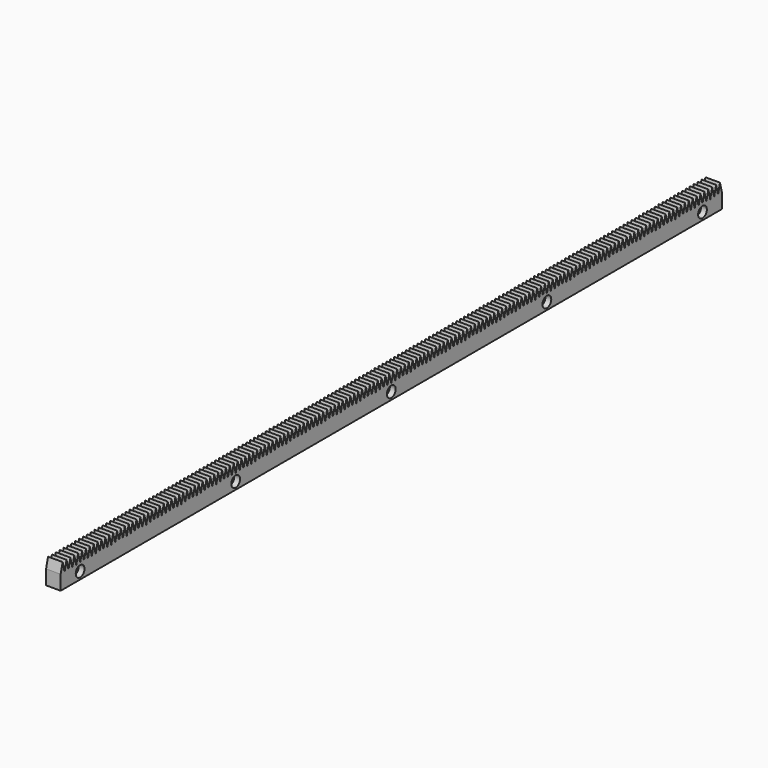
from build123d import *

# Parameters (mm, degrees)
F1_DEPTH       = 15
F3_D           = 6.6
F3_CBORE_D     = 11.25
F3_CBORE_DEPTH = 6


with BuildPart() as f1:
    # F0 (on Right) → F1 (new body)
    with BuildSketch(Plane.YZ):
        Polygon((2.5, 10), (0, 0), (0, -15), (850, -15), (850, 0), (847.5, 10), (845, 0), (842.5, 10), (840, 0), (837.5, 10), (835, 0), (832.5, 10), (830, 0), (827.5, 10), (825, 0), (822.5, 10), (820, 0), (817.5, 10), (815, 0), (812.5, 10), (810, 0), (807.5, 10), (805, 0), (802.5, 10), (800, 0), (797.5, 10), (795, 0), (792.5, 10), (790, 0), (787.5, 10), (785, 0), (782.5, 10), (780, 0), (777.5, 10), (775, 0), (772.5, 10), (770, 0), (767.5, 10), (765, 0), (762.5, 10), (760, 0), (757.5, 10), (755, 0), (752.5, 10), (750, 0), (747.5, 10), (745, 0), (742.5, 10), (740, 0), (737.5, 10), (735, 0), (732.5, 10), (730, 0), (727.5, 10), (725, 0), (722.5, 10), (720, 0), (717.5, 10), (715, 0), (712.5, 10), (710, 0), (707.5, 10), (705, 0), (702.5, 10), (700, 0), (697.5, 10), (695, 0), (692.5, 10), (690, 0), (687.5, 10), (685, 0), (682.5, 10), (680, 0), (677.5, 10), (675, 0), (672.5, 10), (670, 0), (667.5, 10), (665, 0), (662.5, 10), (660, 0), (657.5, 10), (655, 0), (652.5, 10), (650, 0), (647.5, 10), (645, 0), (642.5, 10), (640, 0), (637.5, 10), (635, 0), (632.5, 10), (630, 0), (627.5, 10), (625, 0), (622.5, 10), (620, 0), (617.5, 10), (615, 0), (612.5, 10), (610, 0), (607.5, 10), (605, 0), (602.5, 10), (600, 0), (597.5, 10), (595, 0), (592.5, 10), (590, 0), (587.5, 10), (585, 0), (582.5, 10), (580, 0), (577.5, 10), (575, 0), (572.5, 10), (570, 0), (567.5, 10), (565, 0), (562.5, 10), (560, 0), (557.5, 10), (555, 0), (552.5, 10), (550, 0), (547.5, 10), (545, 0), (542.5, 10), (540, 0), (537.5, 10), (535, 0), (532.5, 10), (530, 0), (527.5, 10), (525, 0), (522.5, 10), (520, 0), (517.5, 10), (515, 0), (512.5, 10), (510, 0), (507.5, 10), (505, 0), (502.5, 10), (500, 0), (497.5, 10), (495, 0), (492.5, 10), (490, 0), (487.5, 10), (485, 0), (482.5, 10), (480, 0), (477.5, 10), (475, 0), (472.5, 10), (470, 0), (467.5, 10), (465, 0), (462.5, 10), (460, 0), (457.5, 10), (455, 0), (452.5, 10), (450, 0), (447.5, 10), (445, 0), (442.5, 10), (440, 0), (437.5, 10), (435, 0), (432.5, 10), (430, 0), (427.5, 10), (425, 0), (422.5, 10), (420, 0), (417.5, 10), (415, 0), (412.5, 10), (410, 0), (407.5, 10), (405, 0), (402.5, 10), (400, 0), (397.5, 10), (395, 0), (392.5, 10), (390, 0), (387.5, 10), (385, 0), (382.5, 10), (380, 0), (377.5, 10), (375, 0), (372.5, 10), (370, 0), (367.5, 10), (365, 0), (362.5, 10), (360, 0), (357.5, 10), (355, 0), (352.5, 10), (350, 0), (347.5, 10), (345, 0), (342.5, 10), (340, 0), (337.5, 10), (335, 0), (332.5, 10), (330, 0), (327.5, 10), (325, 0), (322.5, 10), (320, 0), (317.5, 10), (315, 0), (312.5, 10), (310, 0), (307.5, 10), (305, 0), (302.5, 10), (300, 0), (297.5, 10), (295, 0), (292.5, 10), (290, 0), (287.5, 10), (285, 0), (282.5, 10), (280, 0), (277.5, 10), (275, 0), (272.5, 10), (270, 0), (267.5, 10), (265, 0), (262.5, 10), (260, 0), (257.5, 10), (255, 0), (252.5, 10), (250, 0), (247.5, 10), (245, 0), (242.5, 10), (240, 0), (237.5, 10), (235, 0), (232.5, 10), (230, 0), (227.5, 10), (225, 0), (222.5, 10), (220, 0), (217.5, 10), (215, 0), (212.5, 10), (210, 0), (207.5, 10), (205, 0), (202.5, 10), (200, 0), (197.5, 10), (195, 0), (192.5, 10), (190, 0), (187.5, 10), (185, 0), (182.5, 10), (180, 0), (177.5, 10), (175, 0), (172.5, 10), (170, 0), (167.5, 10), (165, 0), (162.5, 10), (160, 0), (157.5, 10), (155, 0), (152.5, 10), (150, 0), (147.5, 10), (145, 0), (142.5, 10), (140, 0), (137.5, 10), (135, 0), (132.5, 10), (130, 0), (127.5, 10), (125, 0), (122.5, 10), (120, 0), (117.5, 10), (115, 0), (112.5, 10), (110, 0), (107.5, 10), (105, 0), (102.5, 10), (100, 0), (97.5, 10), (95, 0), (92.5, 10), (90, 0), (87.5, 10), (85, 0), (82.5, 10), (80, 0), (77.5, 10), (75, 0), (72.5, 10), (70, 0), (67.5, 10), (65, 0), (62.5, 10), (60, 0), (57.5, 10), (55, 0), (52.5, 10), (50, 0), (47.5, 10), (45, 0), (42.5, 10), (40, 0), (37.5, 10), (35, 0), (32.5, 10), (30, 0), (27.5, 10), (25, 0), (22.5, 10), (20, 0), (17.5, 10), (15, 0), (12.5, 10), (10, 0), (7.5, 10), (5, 0), align=None)
    extrude(amount=F1_DEPTH)

    # F3 (through all)
    with Locations(Plane.YZ.offset(15)):
        with Locations((25, -7.5), (225, -7.5), (425, -7.5), (625, -7.5), (825, -7.5)):
            CounterBoreHole(F3_D / 2, F3_CBORE_D / 2, F3_CBORE_DEPTH)


solid = f1.part
